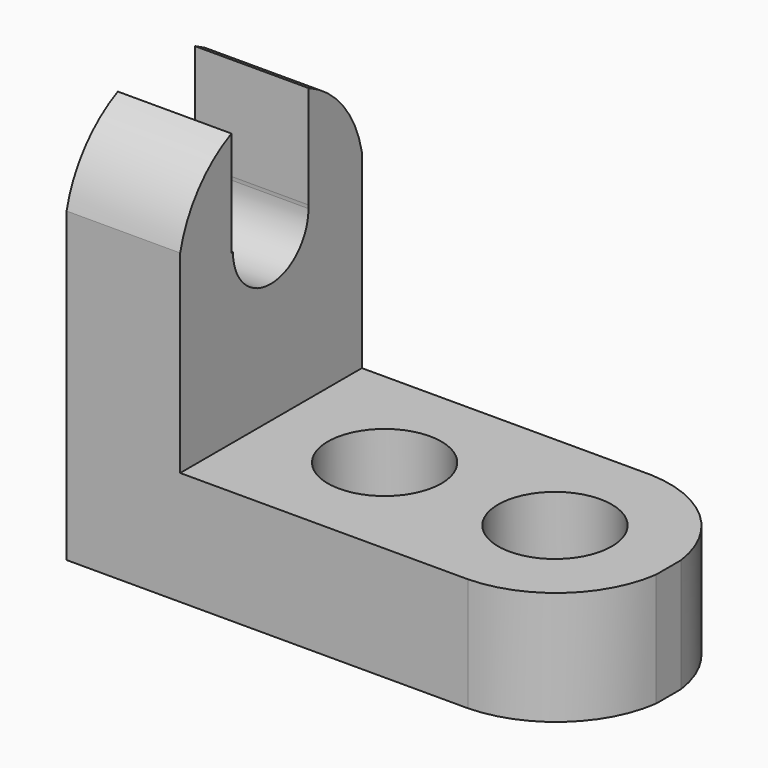
from build123d import *

# Parameters (mm, degrees)
F1_DEPTH = 25.4
F2_R     = 6.35
F3_DEPTH = 12.701
F5_DEPTH = 12.701
F7_DEPTH = 12.701


with BuildPart() as f1:
    # F0 (on Front) → F1 (new body)
    with BuildSketch(Plane.XZ):
        Polygon((-45.6721438388, 52.0613446782), (-58.3721438388, 52.0613446782), (-58.3721438388, 7.6113446782), (-1.2221438388, 7.6113446782), (-1.2221438388, 20.3113446782), (-45.6721438388, 20.3113446782), align=None)
    extrude(amount=F1_DEPTH)

    # F2 (on face) → F3 (cut, through all)
    with BuildSketch(Plane.XY.offset(20.3113446782)):
        with Locations((-32.9721438388, -12.7)):
            Circle(F2_R)
        with Locations((-13.9221438388, -12.7)):
            Circle(F2_R)
    extrude(amount=-F3_DEPTH, mode=Mode.SUBTRACT)

    # F4 (on face) → F5 (cut, through all)
    with BuildSketch(Plane.XY.offset(20.3113446782)):
        with BuildLine():
            ThreePointArc((-13.3388349786, 0), (-5.2890481293, -3.2694333282), (-1.2221438388, -10.9472293725))
            Line((-1.2221438388, -10.9472293725), (-1.2221438388, 0))
            Line((-1.2221438388, 0), (-13.3388349786, 0))
        make_face()
        with BuildLine():
            ThreePointArc((-1.2221438388, -14.447602267), (-5.3529503077, -22.1827419169), (-13.5104743141, -25.4))
            Line((-13.5104743141, -25.4), (-1.2221438388, -25.4))
            Line((-1.2221438388, -25.4), (-1.2221438388, -14.447602267))
        make_face()
    extrude(amount=-F5_DEPTH, mode=Mode.SUBTRACT)

    # F6 (on face) → F7 (cut, through all)
    with BuildSketch(Plane.YZ.offset(-45.6721438388)):
        with BuildLine():
            Line((-7.4811726809, 39.4210381167), (-7.4811726809, 50.9207851655))
            ThreePointArc((-7.4811726809, 50.9207851655), (-12.8712353004, 52.0348936879), (-18.2387330395, 50.8167061557))
            Line((-18.2387330395, 50.8167061557), (-18.2387330395, 39.0471868407))
            Line((-18.2387330395, 39.0471868407), (-18.0232445354, 39.0471868407))
            ThreePointArc((-18.0232445354, 39.0471868407), (-12.9326228444, 44.3215361788), (-7.4811726809, 39.4210381167))
        make_face()
        with BuildLine():
            ThreePointArc((-7.4811726809, 50.9207851655), (-2.5937691395, 47.1488570851), (0, 41.5464900434))
            Line((0, 41.5464900434), (0, 52.0613446782))
            Line((0, 52.0613446782), (-25.4, 52.0613446782))
            Line((-25.4, 52.0613446782), (-25.4, 41.9732704759))
            ThreePointArc((-25.4, 41.9732704759), (-22.839399389, 47.2209939486), (-18.2387330395, 50.8167061557))
            ThreePointArc((-18.2387330395, 50.8167061557), (-12.8712353004, 52.0348936879), (-7.4811726809, 50.9207851655))
        make_face()
        with BuildLine():
            Line((-7.4811726809, 39.0471868407), (-7.4811726809, 39.4210381167))
            ThreePointArc((-7.4811726809, 39.4210381167), (-12.9326228444, 44.3215361788), (-18.0232445354, 39.0471868407))
            Line((-18.0232445354, 39.0471868407), (-7.4811726809, 39.0471868407))
        make_face()
        with BuildLine():
            ThreePointArc((-7.4679148717, 39.0471868407), (-7.4712303654, 39.2342299815), (-7.4811726809, 39.4210381167))
            Line((-7.4811726809, 39.4210381167), (-7.4811726809, 39.0471868407))
            Line((-7.4811726809, 39.0471868407), (-18.0232445354, 39.0471868407))
            ThreePointArc((-18.0232445354, 39.0471868407), (-12.7455797036, 33.7695220088), (-7.4679148717, 39.0471868407))
        make_face()
    extrude(amount=-F7_DEPTH, mode=Mode.SUBTRACT)


solid = f1.part
